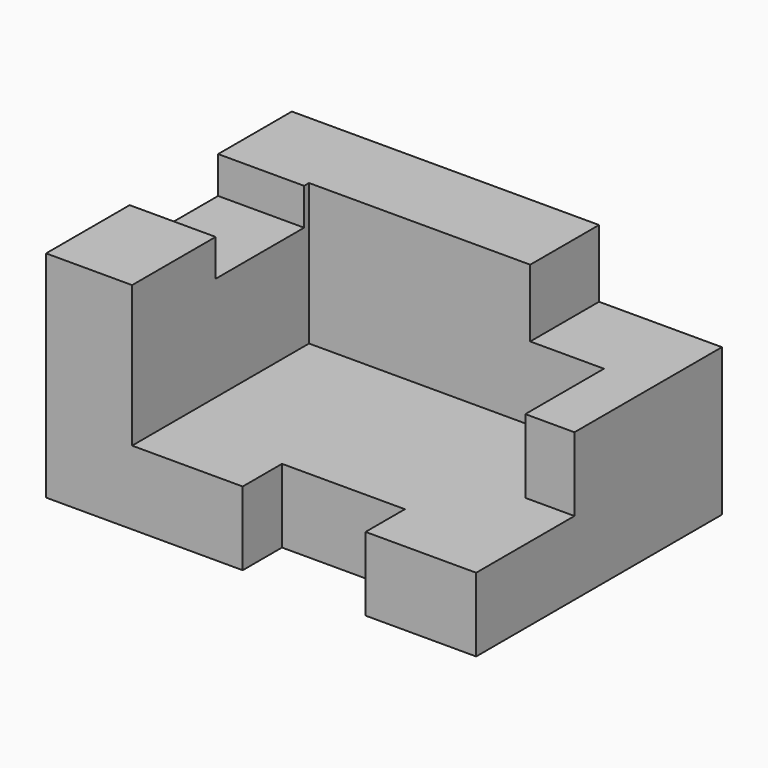
from build123d import *

# Parameters (mm, degrees)
F0_W     = 70
F0_H     = 35
F1_DEPTH = 50
F3_DEPTH = 23
F5_DEPTH = 11
F6_W     = 14
F6_H     = 18
F7_DEPTH = 6
F8_W     = 20
F8_H     = 8
F9_DEPTH = 25


with BuildPart() as f1:
    # F0 (on Front) → F1 (new body)
    with BuildSketch(Plane.XZ):
        with Locations((1.583831, 6.053839)):
            Rectangle(F0_W, F0_H)
    extrude(amount=-F1_DEPTH)

    # F2 (on face) → F3 (cut)
    with BuildSketch(Plane.XY.offset(23.553839)):
        Polygon((-19.416169, 0), (36.583831, 0), (36.583831, 20), (28.583831, 20), (28.583831, 36), (-19.416169, 36), align=None)
        Polygon((-19.416169, 0), (36.583831, 0), (36.583831, 20), (28.583831, 20), (28.583831, 36), (-19.416169, 36), align=None)
    extrude(amount=-F3_DEPTH, mode=Mode.SUBTRACT)

    # F4 (on face) → F5 (cut)
    with BuildSketch(Plane.XY.offset(23.553839)):
        Polygon((16.583831, 36), (28.583831, 36), (28.583831, 20), (36.583831, 20), (36.583831, 50), (16.583831, 50), align=None)
    extrude(amount=-F5_DEPTH, mode=Mode.SUBTRACT)

    # F6 (on face) → F7 (cut)
    with BuildSketch(Plane.XY.offset(23.553839)):
        with Locations((-26.416169, 26)):
            Rectangle(F6_W, F6_H)
    extrude(amount=-F7_DEPTH, mode=Mode.SUBTRACT)

    # F8 (on face) → F9 (cut)
    with BuildSketch(Plane.XY.offset(0.553839)):
        with Locations((8.583831, 4)):
            Rectangle(F8_W, F8_H)
    extrude(amount=-F9_DEPTH, mode=Mode.SUBTRACT)


solid = f1.part
